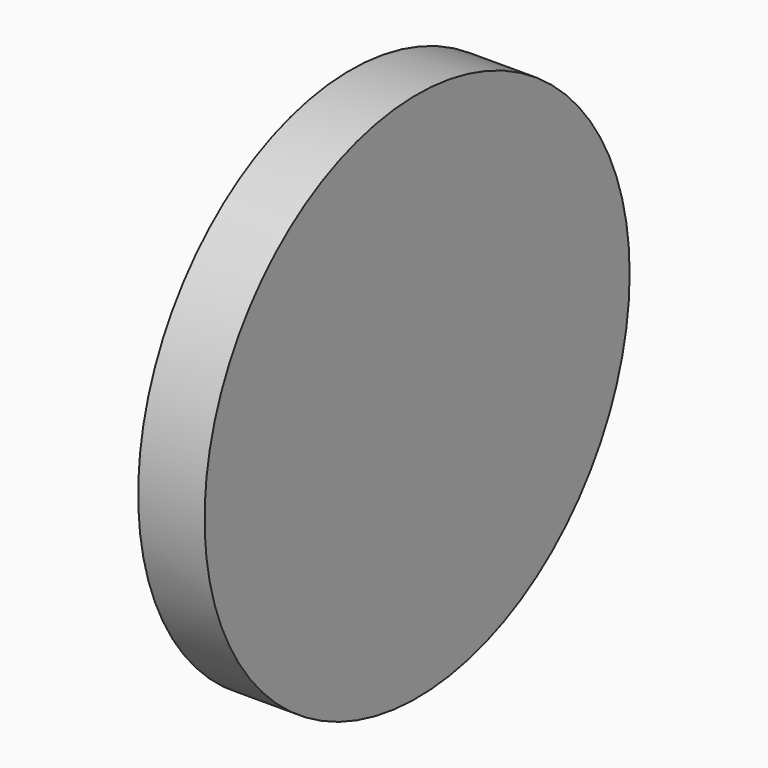
from build123d import *

# Parameters (mm, degrees)
F0_R     = 50.8
F1_DEPTH = 12.7
F2_R     = 42.85984
F3_DEPTH = 6.35


with BuildPart() as f1:
    # F0 (on Right) → F1 (new body)
    with BuildSketch(Plane.YZ):
        Circle(F0_R)
    extrude(amount=F1_DEPTH)

    # F2 (on face) → F3 (cut)
    with BuildSketch(Plane(origin=(0, 0, 0), x_dir=(0, -1, 0), z_dir=(-1, 0, 0))):
        Circle(F2_R)
    extrude(amount=-F3_DEPTH, mode=Mode.SUBTRACT)


solid = f1.part
